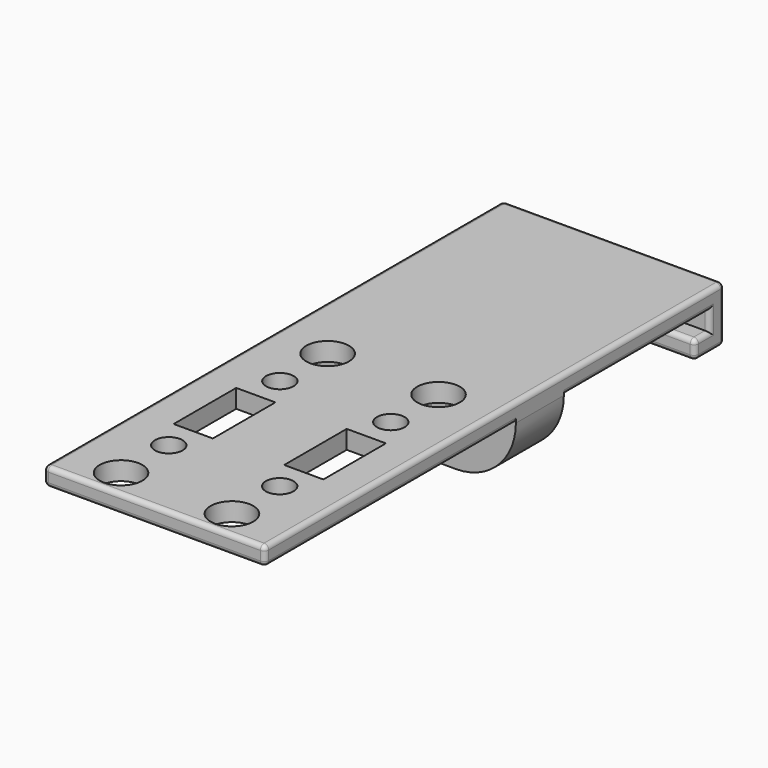
from build123d import *

# Parameters (mm, degrees)
PAD_DEPTH       = 24
SKETCH_R        = 4.625
SKETCH_R_2      = 3
SKETCH_W        = 8.497862
SKETCH_H        = 16.9564
POCKET_DEPTH    = 4
SKETCH003_R     = 2.6
POCKET001_DEPTH = 13
FILLET_R        = 13
FILLET001_R     = 1
SKETCH004_R     = 3.2
POCKET002_DEPTH = 3


with BuildPart() as part:
    # Sketch002 → Pad (new body, symmetric)
    with BuildSketch(Plane.YZ.offset(24)):
        Polygon((0, 4), (56.5, 4), (56.5, -8), (48.5, -8), (48.5, -4), (52.5, -4), (52.5, 0), (13, 0), (13, -13), (0, -13), (0, 0), (-68, 0), (-68, 4), align=None)
    extrude(amount=PAD_DEPTH, both=True)

    # Sketch (on Face13 of Pad) → Pocket (cut)
    with BuildSketch(Plane(origin=(24, -34, 4), x_dir=(-1, 0, 0), z_dir=(0, 0, 1))):
        with Locations((-12.025, 28)):
            Circle(SKETCH_R)
        with Locations((12.025, 28)):
            Circle(SKETCH_R)
        with Locations((12.025, -28)):
            Circle(SKETCH_R)
        with Locations((-12.025, -28)):
            Circle(SKETCH_R)
        with Locations((-12.024955, 15.059916)):
            Circle(SKETCH_R_2)
        with Locations((12.024955, 15.059916)):
            Circle(SKETCH_R_2)
        with Locations((12.024955, -15.059916)):
            Circle(SKETCH_R_2)
        with Locations((-12.024955, -15.059916)):
            Circle(SKETCH_R_2)
        with Locations((-12.001069, 0.0218)):
            Rectangle(SKETCH_W, SKETCH_H)
        with Locations((12.001069, -0.0218)):
            Rectangle(SKETCH_W, SKETCH_H)
    extrude(amount=-POCKET_DEPTH, mode=Mode.SUBTRACT)

    # Sketch003 (on Face30 of Pocket) → Pocket001 (cut)
    with BuildSketch(Plane(origin=(24, 0, 0), x_dir=(0, 0, -1), z_dir=(0, -1, 0))):
        with Locations((9.313336, 0)):
            Circle(SKETCH003_R)
    extrude(amount=-POCKET001_DEPTH, mode=Mode.SUBTRACT)

    # Fillet
    fillet_edges = [part.edges().sort_by_distance(p)[0] for p in [
        (48, 6.5, -13),
        (0, 6.5, -13),
    ]]
    fillet(fillet_edges, radius=FILLET_R)

    # Fillet001
    fillet001_edges = [part.edges().sort_by_distance(p)[0] for p in [
        (24, 56.5, 4),
        (0, 56.5, -2),
        (48, 56.5, -2),
        (24, 56.5, -8),
        (0, 52.5, -8),
        (48, 52.5, -8),
        (24, 48.5, -8),
        (0, 6.5, 0),
        (0, 32.75, 0),
        (0, -34, 0),
        (0, 52.5, -2),
        (0, -68, 2),
        (0, 50.5, -4),
        (0, -34, 4),
        (0, 48.5, -6),
        (0, 28.25, 4),
        (48, 6.5, 0),
        (48, 32.75, 0),
        (48, -34, 0),
        (48, 52.5, -2),
        (48, -68, 2),
        (48, 50.5, -4),
        (48, -34, 4),
        (48, 48.5, -6),
        (48, 28.25, 4),
        (24, -68, 4),
        (24, -68, 0),
        (24, 48.5, -4),
    ]]
    fillet(fillet001_edges, radius=FILLET001_R)

    # Sketch004 (on Face5 of Fillet001) → Pocket002 (cut)
    with BuildSketch(Plane(origin=(24, 0, 0), x_dir=(0, 0, -1), z_dir=(0, -1, 0))):
        with Locations((9.313336, 0)):
            Circle(SKETCH004_R)
    extrude(amount=-POCKET002_DEPTH, mode=Mode.SUBTRACT)


solid = part.part
